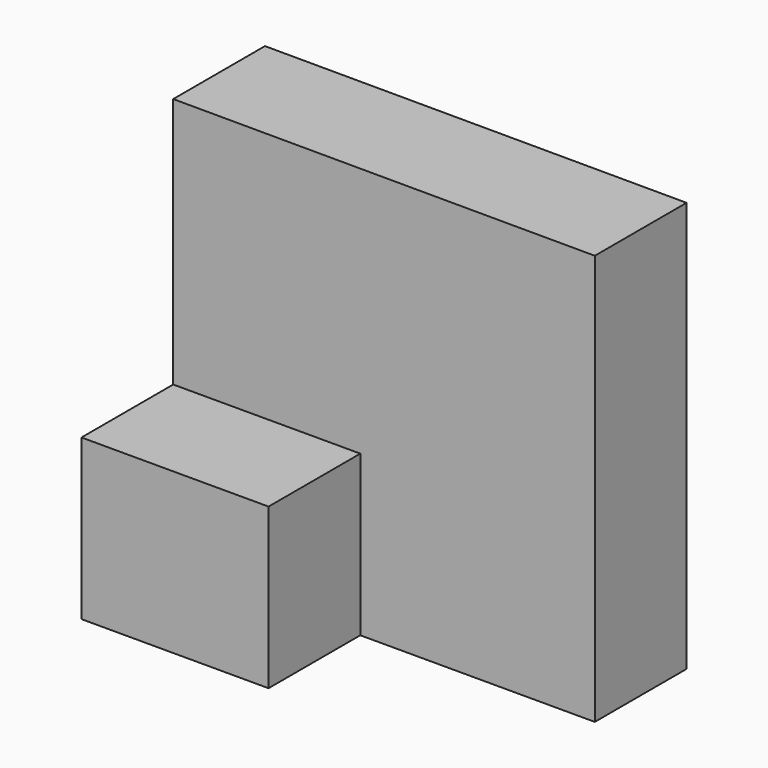
from build123d import *

# Parameters (mm, degrees)
F1_DEPTH = 25.4
F2_W     = 41.437158
F2_H     = 35.42209
F3_DEPTH = 25.4


with BuildPart() as f1:
    # F0 (on Front) → F1 (new body)
    with BuildSketch(Plane.XZ):
        Polygon((38.66832, 55.472326), (-54.708507, 55.66328), (-54.708507, -35.42209), (38.66832, -35.42209), align=None)
    extrude(amount=F1_DEPTH)

    # F2 (on face) → F3 (join)
    with BuildSketch(Plane.XZ.offset(25.4)):
        with Locations((-33.989928, -17.711045)):
            Rectangle(F2_W, F2_H)
    extrude(amount=F3_DEPTH)


solid = f1.part
